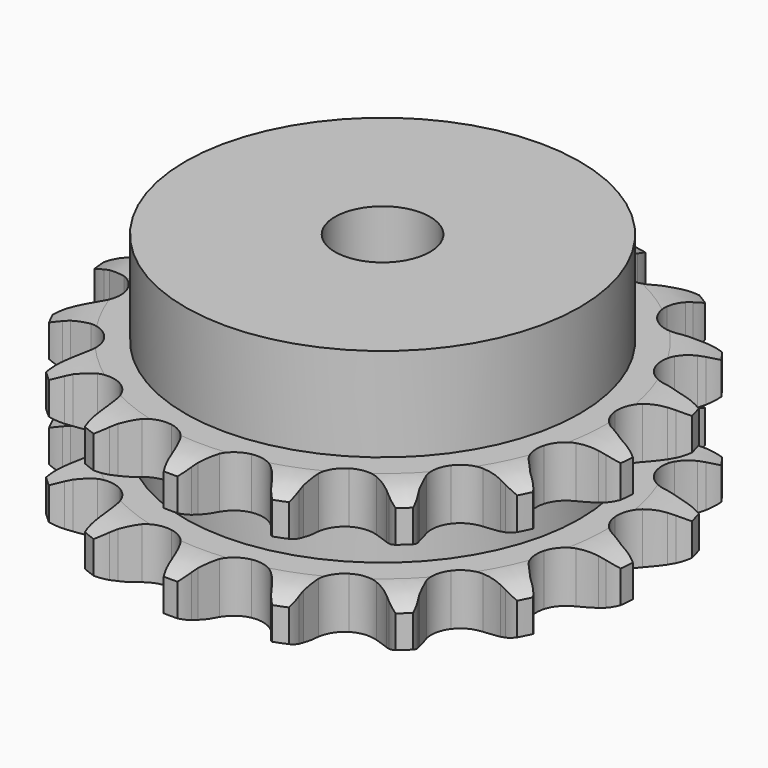
from build123d import *

# Parameters (mm, degrees)
PAD_DEPTH         = 30.3
SKETCH001_R       = 41.5
PAD001_DEPTH      = 50
SKETCH002_R       = 10
POCKET_DEPTH      = 0.001
POCKET_DEPTH_BACK = 50.001


with BuildPart() as part:
    # Sprocket → Pad (new body)
    with BuildSketch(Plane.XY):
        with BuildLine():
            ThreePointArc((-10.612195, 56.770229), (-8.766175, 54.981851), (-7.435293, 52.783024))
            Line((-7.435293, 52.783024), (-6.86271, 51.486248))
            ThreePointArc((-6.86271, 51.486248), (-5.929494, 49.693557), (-4.774522, 48.035041))
            ThreePointArc((-4.774522, 48.035041), (-2.650128, 46.338981), (0, 45.733596))
            ThreePointArc((0, 45.733596), (2.650128, 46.338981), (4.774522, 48.035041))
            ThreePointArc((4.774522, 48.035041), (5.929494, 49.693557), (6.86271, 51.486248))
            Line((6.86271, 51.486248), (7.435293, 52.783024))
            ThreePointArc((7.435293, 52.783024), (8.766175, 54.981851), (10.612195, 56.770229))
            ThreePointArc((10.612195, 56.770229), (11.68752, 54.435757), (12.134223, 51.904642))
            Line((12.134223, 51.904642), (12.199691, 50.488594))
            ThreePointArc((12.199691, 50.488594), (12.422294, 48.479842), (12.900149, 46.516098))
            ThreePointArc((12.900149, 46.516098), (14.2684, 44.16715), (16.52088, 42.645308))
            ThreePointArc((16.52088, 42.645308), (19.210741, 42.252477), (21.804367, 43.066586))
            Line((21.804367, 43.066586), (24.998265, 45.5304))
            ThreePointArc((24.998265, 45.5304), (25.488172, 46.042859), (26.000632, 46.532767))
            ThreePointArc((26.000632, 46.532767), (28.03595, 48.102341), (30.403349, 49.103095))
            ThreePointArc((30.403349, 49.103095), (30.562752, 46.537812), (30.064946, 44.01625))
            Line((30.064946, 44.01625), (29.614457, 42.672175))
            ThreePointArc((29.614457, 42.672175), (29.096384, 40.718656), (28.832584, 38.714898))
            ThreePointArc((28.832584, 38.714898), (29.259902, 36.0303), (30.810524, 33.797535))
            ThreePointArc((30.810524, 33.797535), (33.176838, 32.459541), (35.889412, 32.281749))
            Line((35.889412, 32.281749), (39.757665, 33.425418))
            ThreePointArc((39.757665, 33.425418), (40.399612, 33.726298), (41.054441, 33.998001))
            ThreePointArc((41.054441, 33.998001), (43.519315, 34.726344), (46.088363, 34.804316))
            ThreePointArc((46.088363, 34.804316), (45.310314, 32.354678), (43.93523, 30.18322))
            Line((43.93523, 30.18322), (43.029626, 29.092642))
            ThreePointArc((43.029626, 29.092642), (41.840845, 27.45819), (40.871018, 25.685037))
            ThreePointArc((40.871018, 25.685037), (40.299691, 23.027358), (40.939036, 20.385218))
            ThreePointArc((40.939036, 20.385218), (42.662219, 18.282764), (45.127393, 17.137084))
            Line((45.127393, 17.137084), (49.147573, 16.806149))
            ThreePointArc((49.147573, 16.806149), (49.85486, 16.854813), (50.563621, 16.871617))
            ThreePointArc((50.563621, 16.871617), (53.125155, 16.660362), (55.548888, 15.805021))
            ThreePointArc((55.548888, 15.805021), (53.938467, 13.801865), (51.871819, 12.273778))
            Line((51.871819, 12.273778), (50.633406, 11.583987))
            ThreePointArc((50.633406, 11.583987), (48.934468, 10.489343), (47.389595, 9.186269))
            ThreePointArc((47.389595, 9.186269), (45.896784, 6.914445), (45.538504, 4.219764))
            ThreePointArc((45.538504, 4.219764), (46.38583, 1.636799), (48.27067, -0.32204))
            Line((48.27067, -0.32204), (51.899828, -2.082884))
            ThreePointArc((51.899828, -2.082884), (52.576933, -2.293008), (53.243903, -2.533372))
            ThreePointArc((53.243903, -2.533372), (55.556149, -3.655695), (57.507227, -5.328829))
            ThreePointArc((57.507227, -5.328829), (55.281932, -6.614966), (52.802831, -7.293305))
            Line((52.802831, -7.293305), (51.398864, -7.48915))
            ThreePointArc((51.398864, -7.48915), (49.41922, -7.896148), (47.507944, -8.553155))
            ThreePointArc((47.507944, -8.553155), (45.295262, -10.132303), (43.987745, -12.515593))
            ThreePointArc((43.987745, -12.515593), (43.844779, -15.230225), (44.894725, -17.737671))
            Line((44.894725, -17.737671), (47.642724, -20.690612))
            ThreePointArc((47.642724, -20.690612), (48.1982, -21.131145), (48.733302, -21.596216))
            ThreePointArc((48.733302, -21.596216), (50.483976, -23.47803), (51.698897, -25.742992))
            ThreePointArc((51.698897, -25.742992), (49.159265, -26.138409), (46.602528, -25.875387))
            Line((46.602528, -25.875387), (45.22262, -25.550835))
            ThreePointArc((45.22262, -25.550835), (43.229633, -25.21522), (41.210083, -25.137429))
            ThreePointArc((41.210083, -25.137429), (38.576364, -25.810627), (36.496197, -27.560649))
            ThreePointArc((36.496197, -27.560649), (35.382247, -30.040323), (35.455498, -32.75773))
            Line((35.455498, -32.75773), (36.951206, -36.503958))
            ThreePointArc((36.951206, -36.503958), (37.310033, -37.115404), (37.640998, -37.74237))
            ThreePointArc((37.640998, -37.74237), (38.593663, -40.129527), (38.908345, -42.680421))
            ThreePointArc((38.908345, -42.680421), (36.397367, -42.131715), (34.108295, -40.962854))
            Line((34.108295, -40.962854), (32.938811, -40.161739))
            ThreePointArc((32.938811, -40.161739), (31.201644, -39.128837), (29.346571, -38.326753))
            ThreePointArc((29.346571, -38.326753), (26.647514, -38.003083), (24.075636, -38.883487))
            ThreePointArc((24.075636, -38.883487), (22.141146, -40.793308), (21.22781, -43.353677))
            Line((21.22781, -43.353677), (21.269223, -47.387242))
            ThreePointArc((21.269223, -47.387242), (21.38294, -48.087022), (21.465068, -48.791209))
            ThreePointArc((21.465068, -48.791209), (21.491062, -51.361308), (20.863005, -53.853623))
            ThreePointArc((20.863005, -53.853623), (18.719803, -52.4349), (17.007548, -50.518061))
            Line((17.007548, -50.518061), (16.206433, -49.348577))
            ThreePointArc((16.206433, -49.348577), (14.9597, -47.757888), (13.519642, -46.339837))
            ThreePointArc((13.519642, -46.339837), (11.11977, -45.063012), (8.403526, -44.954894))
            ThreePointArc((8.403526, -44.954894), (5.909761, -46.036932), (4.133189, -48.09447))
            Line((4.133189, -48.09447), (2.714714, -51.870617))
            ThreePointArc((2.714714, -51.870617), (2.567961, -52.564222), (2.390162, -53.250524))
            ThreePointArc((2.390162, -53.250524), (1.485974, -55.656461), (0, -57.753594))
            ThreePointArc((0, -57.753594), (-1.485974, -55.656461), (-2.390162, -53.250524))
            Line((-2.390162, -53.250524), (-2.714714, -51.870617))
            ThreePointArc((-2.714714, -51.870617), (-3.302634, -49.936971), (-4.133189, -48.09447))
            ThreePointArc((-4.133189, -48.09447), (-5.909761, -46.036932), (-8.403526, -44.954894))
            ThreePointArc((-8.403526, -44.954894), (-11.11977, -45.063012), (-13.519642, -46.339837))
            Line((-13.519642, -46.339837), (-16.206433, -49.348577))
            ThreePointArc((-16.206433, -49.348577), (-16.593834, -49.942332), (-17.007548, -50.518061))
            ThreePointArc((-17.007548, -50.518061), (-18.719803, -52.4349), (-20.863005, -53.853623))
            ThreePointArc((-20.863005, -53.853623), (-21.491062, -51.361308), (-21.465068, -48.791209))
            Line((-21.465068, -48.791209), (-21.269223, -47.387242))
            ThreePointArc((-21.269223, -47.387242), (-21.118929, -45.37179), (-21.22781, -43.353677))
            ThreePointArc((-21.22781, -43.353677), (-22.141146, -40.793308), (-24.075636, -38.883487))
            ThreePointArc((-24.075636, -38.883487), (-26.647514, -38.003083), (-29.346571, -38.326753))
            Line((-29.346571, -38.326753), (-32.938811, -40.161739))
            ThreePointArc((-32.938811, -40.161739), (-33.514541, -40.575453), (-34.108295, -40.962854))
            ThreePointArc((-34.108295, -40.962854), (-36.397367, -42.131715), (-38.908345, -42.680421))
            ThreePointArc((-38.908345, -42.680421), (-38.593663, -40.129527), (-37.640998, -37.74237))
            Line((-37.640998, -37.74237), (-36.951206, -36.503958))
            ThreePointArc((-36.951206, -36.503958), (-36.082996, -34.678897), (-35.455498, -32.75773))
            ThreePointArc((-35.455498, -32.75773), (-35.382247, -30.040323), (-36.496197, -27.560649))
            ThreePointArc((-36.496197, -27.560649), (-38.576364, -25.810627), (-41.210083, -25.137429))
            Line((-41.210083, -25.137429), (-45.22262, -25.550835))
            ThreePointArc((-45.22262, -25.550835), (-45.908923, -25.728634), (-46.602528, -25.875387))
            ThreePointArc((-46.602528, -25.875387), (-49.159265, -26.138409), (-51.698897, -25.742992))
            ThreePointArc((-51.698897, -25.742992), (-50.483976, -23.47803), (-48.733302, -21.596216))
            Line((-48.733302, -21.596216), (-47.642724, -20.690612))
            ThreePointArc((-47.642724, -20.690612), (-46.173854, -19.302427), (-44.894725, -17.737671))
            ThreePointArc((-44.894725, -17.737671), (-43.844779, -15.230225), (-43.987745, -12.515593))
            ThreePointArc((-43.987745, -12.515593), (-45.295262, -10.132303), (-47.507944, -8.553155))
            Line((-47.507944, -8.553155), (-51.398864, -7.48915))
            ThreePointArc((-51.398864, -7.48915), (-52.10305, -7.407021), (-52.802831, -7.293305))
            ThreePointArc((-52.802831, -7.293305), (-55.281932, -6.614966), (-57.507227, -5.328829))
            ThreePointArc((-57.507227, -5.328829), (-55.556149, -3.655695), (-53.243903, -2.533372))
            Line((-53.243903, -2.533372), (-51.899828, -2.082884))
            ThreePointArc((-51.899828, -2.082884), (-50.028678, -1.319057), (-48.27067, -0.32204))
            ThreePointArc((-48.27067, -0.32204), (-46.38583, 1.636799), (-45.538504, 4.219764))
            ThreePointArc((-45.538504, 4.219764), (-45.896784, 6.914445), (-47.389595, 9.186269))
            Line((-47.389595, 9.186269), (-50.633406, 11.583987))
            ThreePointArc((-50.633406, 11.583987), (-51.260372, 11.914951), (-51.871819, 12.273778))
            ThreePointArc((-51.871819, 12.273778), (-53.938467, 13.801865), (-55.548888, 15.805021))
            ThreePointArc((-55.548888, 15.805021), (-53.125155, 16.660362), (-50.563621, 16.871617))
            Line((-50.563621, 16.871617), (-49.147573, 16.806149))
            ThreePointArc((-49.147573, 16.806149), (-47.126851, 16.842459), (-45.127393, 17.137084))
            ThreePointArc((-45.127393, 17.137084), (-42.662219, 18.282764), (-40.939036, 20.385218))
            ThreePointArc((-40.939036, 20.385218), (-40.299691, 23.027358), (-40.871018, 25.685037))
            Line((-40.871018, 25.685037), (-43.029626, 29.092642))
            ThreePointArc((-43.029626, 29.092642), (-43.494697, 29.627743), (-43.93523, 30.18322))
            ThreePointArc((-43.93523, 30.18322), (-45.310314, 32.354678), (-46.088363, 34.804316))
            ThreePointArc((-46.088363, 34.804316), (-43.519315, 34.726344), (-41.054441, 33.998001))
            Line((-41.054441, 33.998001), (-39.757665, 33.425418))
            ThreePointArc((-39.757665, 33.425418), (-37.860282, 32.729307), (-35.889412, 32.281749))
            ThreePointArc((-35.889412, 32.281749), (-33.176838, 32.459541), (-30.810524, 33.797535))
            ThreePointArc((-30.810524, 33.797535), (-29.259902, 36.0303), (-28.832584, 38.714898))
            Line((-28.832584, 38.714898), (-29.614457, 42.672175))
            ThreePointArc((-29.614457, 42.672175), (-29.854822, 43.339145), (-30.064946, 44.01625))
            ThreePointArc((-30.064946, 44.01625), (-30.562752, 46.537812), (-30.403349, 49.103095))
            ThreePointArc((-30.403349, 49.103095), (-28.03595, 48.102341), (-26.000632, 46.532767))
            Line((-26.000632, 46.532767), (-24.998265, 45.5304))
            ThreePointArc((-24.998265, 45.5304), (-23.480472, 44.195881), (-21.804367, 43.066586))
            ThreePointArc((-21.804367, 43.066586), (-19.210741, 42.252477), (-16.52088, 42.645308))
            ThreePointArc((-16.52088, 42.645308), (-14.2684, 44.16715), (-12.900149, 46.516098))
            Line((-12.900149, 46.516098), (-12.199691, 50.488594))
            ThreePointArc((-12.199691, 50.488594), (-12.182887, 51.197354), (-12.134223, 51.904642))
            ThreePointArc((-12.134223, 51.904642), (-11.68752, 54.435757), (-10.612195, 56.770229))
        make_face()
    extrude(amount=PAD_DEPTH)

    # Sketch → Groove (revolve, cut)
    with BuildSketch(Plane.XZ):
        with BuildLine():
            ThreePointArc((47.264719, 0), (51.623618, 0.506758), (55.75, 2))
            Line((55.75, 2), (55.75, 8.8))
            ThreePointArc((55.75, 8.8), (51.623618, 10.293242), (47.264719, 10.8))
            Line((41.5, 10.8), (47.264719, 10.8))
            Line((41.5, 19.5), (41.5, 10.8))
            Line((47.264719, 19.5), (41.5, 19.5))
            ThreePointArc((47.264719, 19.5), (51.623618, 20.006758), (55.75, 21.5))
            Line((55.75, 21.5), (55.75, 28.3))
            ThreePointArc((55.75, 28.3), (51.623618, 29.793242), (47.264719, 30.3))
            Line((47.264719, 30.3), (65.75, 30.3))
            Line((65.75, 30.3), (65.75, 0))
            Line((47.264719, 0), (65.75, 0))
        make_face()
    revolve(axis=Axis((0, 0, 0), (0, 0, 1)), mode=Mode.SUBTRACT)

    # Sketch001 → Pad001 (join)
    with BuildSketch(Plane.XY):
        Circle(SKETCH001_R)
    extrude(amount=PAD001_DEPTH)

    # Sketch002 → Pocket (cut, two sides)
    with BuildSketch(Plane.XY) as pocket_sk:
        Circle(SKETCH002_R)
    extrude(amount=-POCKET_DEPTH, mode=Mode.SUBTRACT)
    extrude(pocket_sk.sketch, amount=POCKET_DEPTH_BACK, mode=Mode.SUBTRACT)


solid = part.part
